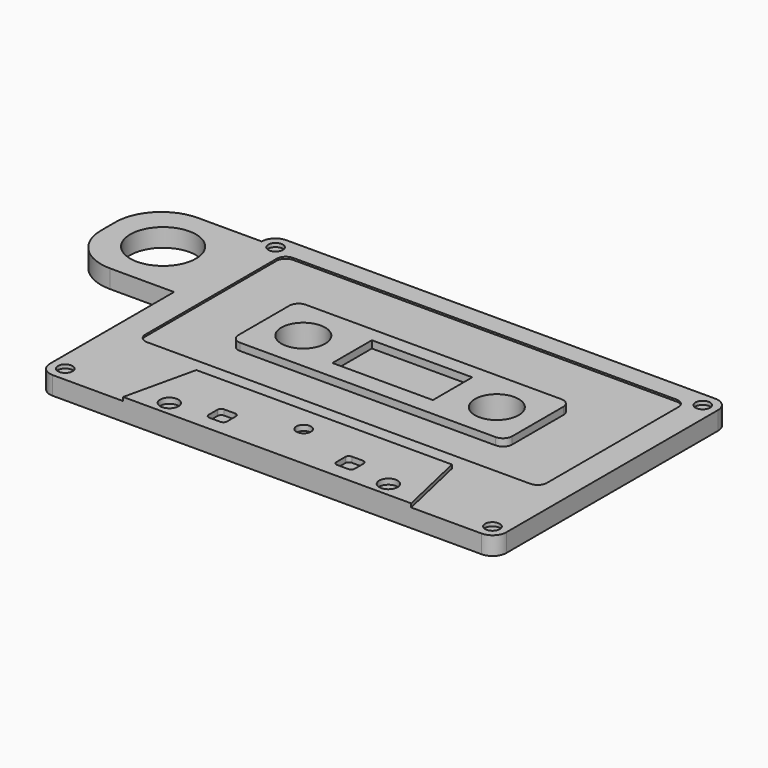
from build123d import *

# Parameters (mm, degrees)
SKETCH_W        = 25
SKETCH_H        = 16
PAD_DEPTH       = 1
POCKET_DEPTH    = 0.1
FILLET_R        = 0.75
PAD001_DEPTH    = 0.2
SKETCH003_W     = 5.5
SKETCH003_H     = 2.7
PAD002_DEPTH    = 0.4
SKETCH004_R     = 1.2
POCKET001_DEPTH = 5
SKETCH005_R     = 0.4
POCKET002_DEPTH = 0.2
SKETCH006_R     = 0.4
SKETCH006_R_2   = 0.5
POCKET003_DEPTH = 0.3
SKETCH007_W     = 6
SKETCH007_H     = 1
PAD003_DEPTH    = 6
FILLET001_R     = 2.5
SKETCH008_R     = 1.8
POCKET004_DEPTH = 5


with BuildPart() as part:
    # Sketch → Pad (new body)
    with BuildSketch(Plane.XY):
        with Locations((3.768729, 2.075196)):
            Rectangle(SKETCH_W, SKETCH_H)
    extrude(amount=PAD_DEPTH)

    # Sketch001 (on Face6 of Pad) → Pocket (cut)
    with BuildSketch(Plane.XY.offset(1)):
        with BuildLine():
            Line((-6.731271, 8.975196), (14.268729, 8.975196))
            ThreePointArc((14.768729, 8.475196), (14.622283, 8.82875), (14.268729, 8.975196))
            Line((14.768729, 8.475196), (14.768729, -0.524804))
            ThreePointArc((14.268729, -1.024804), (14.622283, -0.878357), (14.768729, -0.524804))
            Line((14.268729, -1.024804), (-6.731271, -1.024804))
            ThreePointArc((-7.231271, -0.524804), (-7.084824, -0.878357), (-6.731271, -1.024804))
            Line((-7.231271, -0.524804), (-7.231271, 8.475196))
            ThreePointArc((-6.731271, 8.975196), (-7.084824, 8.82875), (-7.231271, 8.475196))
        make_face()
    extrude(amount=-POCKET_DEPTH, mode=Mode.SUBTRACT)

    # Fillet
    fillet_edges = [part.edges().sort_by_distance(p)[0] for p in [
        (-8.731271, 10.075196, 0.5),
        (-8.731271, -5.924804, 0.5),
        (16.268729, -5.924804, 0.5),
        (16.268729, 10.075196, 0.5),
    ]]
    fillet(fillet_edges, radius=FILLET_R)

    # Sketch002 (on Face5 of Fillet) → Pad001 (join)
    with BuildSketch(Plane.XY.offset(1)):
        Polygon((-4.12009, -5.924804), (-3.231271, -2.024804), (10.768729, -2.024804), (11.657549, -5.924804), align=None)
    extrude(amount=PAD001_DEPTH)

    # Sketch003 (on Face24 of Pad001) → Pad002 (join)
    with BuildSketch(Plane.XY.offset(0.9)):
        with BuildLine():
            Line((-3.231271, 5.475196), (10.768729, 5.475196))
            ThreePointArc((11.268729, 4.975196), (11.122283, 5.32875), (10.768729, 5.475196))
            Line((11.268729, 4.975196), (11.268729, 1.475196))
            ThreePointArc((10.768729, 0.975196), (11.122283, 1.121643), (11.268729, 1.475196))
            Line((10.768729, 0.975196), (-3.231271, 0.975196))
            ThreePointArc((-3.731271, 1.475196), (-3.584824, 1.121643), (-3.231271, 0.975196))
            Line((-3.731271, 1.475196), (-3.731271, 4.975196))
            ThreePointArc((-3.231271, 5.475196), (-3.584824, 5.32875), (-3.731271, 4.975196))
        make_face()
        with Locations((3.775376, 3.325196)):
            Rectangle(SKETCH003_W, SKETCH003_H, mode=Mode.SUBTRACT)
    extrude(amount=PAD002_DEPTH)

    # Sketch004 (on Face33 of Pad002) → Pocket001 (cut)
    with BuildSketch(Plane.XY.offset(1.3)):
        with Locations((-1.531271, 3.175196)):
            Circle(SKETCH004_R)
        with Locations((9.068729, 3.175196)):
            Circle(SKETCH004_R)
    extrude(amount=-POCKET001_DEPTH, mode=Mode.SUBTRACT)

    # Sketch005 (on Face5 of Pocket001) → Pocket002 (cut)
    with BuildSketch(Plane.XY.offset(1)):
        with Locations((-7.931271, 9.275196)):
            Circle(SKETCH005_R)
        with Locations((-7.931271, -5.124804)):
            Circle(SKETCH005_R)
        with Locations((15.468729, -5.124804)):
            Circle(SKETCH005_R)
        with Locations((15.468729, 9.275196)):
            Circle(SKETCH005_R)
    extrude(amount=-POCKET002_DEPTH, mode=Mode.SUBTRACT)

    # Sketch006 (on Face30 of Pocket002) → Pocket003 (cut)
    with BuildSketch(Plane.XY.offset(1.2)):
        with Locations((3.768729, -3.424804)):
            Circle(SKETCH006_R)
        with Locations((-2.231271, -5.124804)):
            Circle(SKETCH006_R_2)
        with Locations((9.768729, -5.124804)):
            Circle(SKETCH006_R_2)
        with BuildLine():
            Line((-0.031271, -4.124804), (0.568729, -4.124804))
            ThreePointArc((0.768729, -4.324804), (0.710151, -4.183382), (0.568729, -4.124804))
            Line((0.768729, -4.324804), (0.768729, -4.924804))
            ThreePointArc((0.568729, -5.124804), (0.710151, -5.066225), (0.768729, -4.924804))
            Line((0.568729, -5.124804), (-0.031271, -5.124804))
            ThreePointArc((-0.231271, -4.924804), (-0.172692, -5.066225), (-0.031271, -5.124804))
            Line((-0.231271, -4.924804), (-0.231271, -4.324804))
            ThreePointArc((-0.031271, -4.124804), (-0.172692, -4.183382), (-0.231271, -4.324804))
        make_face()
        with BuildLine():
            Line((7.568729, -4.124804), (6.968729, -4.124804))
            ThreePointArc((6.968729, -4.124804), (6.827308, -4.183382), (6.768729, -4.324804))
            Line((6.768729, -4.324804), (6.768729, -4.924804))
            ThreePointArc((6.768729, -4.924804), (6.827308, -5.066225), (6.968729, -5.124804))
            Line((6.968729, -5.124804), (7.568729, -5.124804))
            ThreePointArc((7.568729, -5.124804), (7.710151, -5.066225), (7.768729, -4.924804))
            Line((7.768729, -4.924804), (7.768729, -4.324804))
            ThreePointArc((7.768729, -4.324804), (7.710151, -4.183382), (7.568729, -4.124804))
        make_face()
    extrude(amount=-POCKET003_DEPTH, mode=Mode.SUBTRACT)

    # Sketch007 (on Face6 of Pocket003) → Pad003 (join)
    with BuildSketch(Plane(origin=(-8.731271, 0, 0), x_dir=(0, -1, 0), z_dir=(-1, 0, 0))):
        with Locations((-6.325196, 0.5)):
            Rectangle(SKETCH007_W, SKETCH007_H)
    extrude(amount=PAD003_DEPTH)

    # Fillet001
    fillet001_edges = [part.edges().sort_by_distance(p)[0] for p in [
        (-14.731271, 3.325196, 0.5),
        (-14.731271, 9.325196, 0.5),
    ]]
    fillet(fillet001_edges, radius=FILLET001_R)

    # Sketch008 (on Face8 of Fillet001) → Pocket004 (cut)
    with BuildSketch(Plane.XY.offset(1)):
        with Locations((-11.731271, 6.325196)):
            Circle(SKETCH008_R)
    extrude(amount=-POCKET004_DEPTH, mode=Mode.SUBTRACT)


solid = part.part
